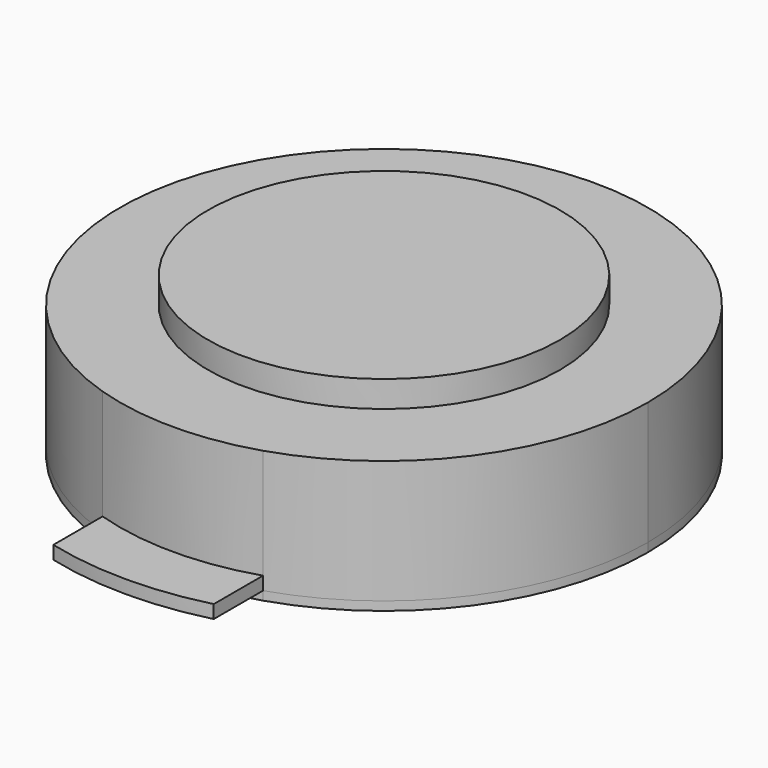
from build123d import *

# Parameters (mm, degrees)
F0_R     = 20
F0_R_2   = 12.5
F1_DEPTH = 14
F2_DEPTH = 17
F0_R_3   = 1
F3_DEPTH = 1.5
F4_DEPTH = 5
F7_DEPTH = 1


with BuildPart() as f1:
    # F0 (on Top) → F1 (new body)
    with BuildSketch(Plane.XY):
        with BuildLine():
            ThreePointArc((9.1152584866, -28.5816735466), (24.2224870172, -17.6994667349), (30, 0))
            ThreePointArc((30, 0), (-17.6994667349, 24.2224870172), (-9.1152584866, -28.5816735466))
            ThreePointArc((-9.1152584866, -28.5816735466), (0, -30), (9.1152584866, -28.5816735466))
        make_face()
        with BuildLine():
            ThreePointArc((19.091883092, 19.091883092), (24.9447473778, 10.3324526739), (27, 0))
            ThreePointArc((27, 0), (24.9447473798, -10.3324526689), (19.0918830996, -19.0918830845))
            ThreePointArc((19.0918830996, -19.0918830845), (5.3e-09, -27), (-19.091883092, -19.091883092))
            ThreePointArc((-19.091883092, -19.091883092), (-27, 0), (-19.091883092, 19.091883092))
            ThreePointArc((-19.091883092, 19.091883092), (0, 27), (19.091883092, 19.091883092))
        make_face(mode=Mode.SUBTRACT)
        with BuildLine():
            ThreePointArc((19.0918830996, -19.0918830845), (24.9447473798, -10.3324526689), (27, 0))
            ThreePointArc((27, 0), (24.9447473778, 10.3324526739), (19.091883092, 19.091883092))
            ThreePointArc((19.091883092, 19.091883092), (0, 27), (-19.091883092, 19.091883092))
            ThreePointArc((-19.091883092, 19.091883092), (-27, 0), (-19.091883092, -19.091883092))
            ThreePointArc((-19.091883092, -19.091883092), (5.3e-09, -27), (19.0918830996, -19.0918830845))
        make_face()
        with BuildLine():
            ThreePointArc((-16.5312229203, -18.0312229203), (-17.4571977717, -19.417042219), (-19.091883092, -19.091883092))
            ThreePointArc((-19.091883092, -19.091883092), (-18.6052480688, -16.6454036215), (-16.5312229203, -18.0312229203))
        make_face(mode=Mode.SUBTRACT)
        with BuildLine():
            ThreePointArc((19.5312229203, -18.0312229203), (19.4170422211, -18.6052480639), (19.0918830996, -19.0918830845))
            ThreePointArc((19.0918830996, -19.0918830845), (16.6454036195, -17.4571977766), (19.5312229203, -18.0312229203))
        make_face(mode=Mode.SUBTRACT)
        with BuildLine():
            ThreePointArc((-16.5312229203, 18.0312229203), (-18.6052480688, 16.6454036215), (-19.091883092, 19.091883092))
            ThreePointArc((-19.091883092, 19.091883092), (-17.4571977717, 19.417042219), (-16.5312229203, 18.0312229203))
        make_face(mode=Mode.SUBTRACT)
        Circle(F0_R, mode=Mode.SUBTRACT)
        with BuildLine():
            ThreePointArc((19.5312229203, 18.0312229203), (16.6454036215, 17.4571977717), (19.091883092, 19.091883092))
            ThreePointArc((19.091883092, 19.091883092), (19.417042219, 18.6052480688), (19.5312229203, 18.0312229203))
        make_face(mode=Mode.SUBTRACT)
        Circle(F0_R)
        Circle(F0_R_2, mode=Mode.SUBTRACT)
        Circle(F0_R_2)
        with BuildLine():
            ThreePointArc((19.5312229203, 18.0312229203), (19.417042219, 18.6052480688), (19.091883092, 19.091883092))
            ThreePointArc((19.091883092, 19.091883092), (16.6454036215, 17.4571977717), (19.5312229203, 18.0312229203))
        make_face()
        with BuildLine():
            ThreePointArc((-16.5312229203, 18.0312229203), (-17.4571977717, 19.417042219), (-19.091883092, 19.091883092))
            ThreePointArc((-19.091883092, 19.091883092), (-18.6052480688, 16.6454036215), (-16.5312229203, 18.0312229203))
        make_face()
        with BuildLine():
            ThreePointArc((-16.5312229203, -18.0312229203), (-18.6052480688, -16.6454036215), (-19.091883092, -19.091883092))
            ThreePointArc((-19.091883092, -19.091883092), (-17.4571977717, -19.417042219), (-16.5312229203, -18.0312229203))
        make_face()
        with BuildLine():
            ThreePointArc((19.5312229203, -18.0312229203), (16.6454036195, -17.4571977766), (19.0918830996, -19.0918830845))
            ThreePointArc((19.0918830996, -19.0918830845), (19.4170422211, -18.6052480639), (19.5312229203, -18.0312229203))
        make_face()
    extrude(amount=F1_DEPTH)

    # F0 (on Top) → F2 (join)
    with BuildSketch(Plane.XY):
        Circle(F0_R)
        Circle(F0_R_2, mode=Mode.SUBTRACT)
        Circle(F0_R_2)
    extrude(amount=F2_DEPTH)

    # F0 (on Top) → F3 (join)
    with BuildSketch(Plane.XY):
        with BuildLine():
            ThreePointArc((9.1152584866, -28.5816735466), (0, -30), (-9.1152584866, -28.5816735466))
            Line((-9.1152584866, -28.5816735466), (-9.1152584866, -35.5816735466))
            ThreePointArc((-9.1152584866, -35.5816735466), (0, -36.7306878462), (9.1152584866, -35.5816735466))
            Line((9.1152584866, -35.5816735466), (9.1152584866, -28.5816735466))
        make_face()
        with Locations((-4.2370397167, -33.0812516278)):
            Circle(F0_R_3, mode=Mode.SUBTRACT)
        with Locations((4.2370397167, -33.0812516278)):
            Circle(F0_R_3, mode=Mode.SUBTRACT)
        with Locations((-4.2370397167, -33.0812516278)):
            Circle(F0_R_3)
        with Locations((4.2370397167, -33.0812516278)):
            Circle(F0_R_3)
    extrude(amount=F3_DEPTH)

    # F0 (on Top) → F4 (cut)
    with BuildSketch(Plane.XY):
        with BuildLine():
            ThreePointArc((-16.5312229203, 18.0312229203), (-17.4571977717, 19.417042219), (-19.091883092, 19.091883092))
            ThreePointArc((-19.091883092, 19.091883092), (-18.6052480688, 16.6454036215), (-16.5312229203, 18.0312229203))
        make_face()
        with BuildLine():
            ThreePointArc((19.5312229203, 18.0312229203), (19.417042219, 18.6052480688), (19.091883092, 19.091883092))
            ThreePointArc((19.091883092, 19.091883092), (16.6454036215, 17.4571977717), (19.5312229203, 18.0312229203))
        make_face()
        with BuildLine():
            ThreePointArc((19.5312229203, -18.0312229203), (16.6454036195, -17.4571977766), (19.0918830996, -19.0918830845))
            ThreePointArc((19.0918830996, -19.0918830845), (19.4170422211, -18.6052480639), (19.5312229203, -18.0312229203))
        make_face()
        with BuildLine():
            ThreePointArc((-16.5312229203, -18.0312229203), (-18.6052480688, -16.6454036215), (-19.091883092, -19.091883092))
            ThreePointArc((-19.091883092, -19.091883092), (-17.4571977717, -19.417042219), (-16.5312229203, -18.0312229203))
        make_face()
    extrude(amount=F4_DEPTH, mode=Mode.SUBTRACT)

    # F0 (on Top) → F7 (join)
    with BuildSketch(Plane.XY):
        with BuildLine():
            ThreePointArc((9.1152584866, -28.5816735466), (24.2224870172, -17.6994667349), (30, 0))
            ThreePointArc((30, 0), (-17.6994667349, 24.2224870172), (-9.1152584866, -28.5816735466))
            ThreePointArc((-9.1152584866, -28.5816735466), (0, -30), (9.1152584866, -28.5816735466))
        make_face()
        with BuildLine():
            ThreePointArc((19.091883092, 19.091883092), (24.9447473778, 10.3324526739), (27, 0))
            ThreePointArc((27, 0), (24.9447473798, -10.3324526689), (19.0918830996, -19.0918830845))
            ThreePointArc((19.0918830996, -19.0918830845), (5.3e-09, -27), (-19.091883092, -19.091883092))
            ThreePointArc((-19.091883092, -19.091883092), (-27, 0), (-19.091883092, 19.091883092))
            ThreePointArc((-19.091883092, 19.091883092), (0, 27), (19.091883092, 19.091883092))
        make_face(mode=Mode.SUBTRACT)
        with BuildLine():
            ThreePointArc((19.0918830996, -19.0918830845), (24.9447473798, -10.3324526689), (27, 0))
            ThreePointArc((27, 0), (24.9447473778, 10.3324526739), (19.091883092, 19.091883092))
            ThreePointArc((19.091883092, 19.091883092), (0, 27), (-19.091883092, 19.091883092))
            ThreePointArc((-19.091883092, 19.091883092), (-27, 0), (-19.091883092, -19.091883092))
            ThreePointArc((-19.091883092, -19.091883092), (5.3e-09, -27), (19.0918830996, -19.0918830845))
        make_face()
        with BuildLine():
            ThreePointArc((-16.5312229203, -18.0312229203), (-17.4571977717, -19.417042219), (-19.091883092, -19.091883092))
            ThreePointArc((-19.091883092, -19.091883092), (-18.6052480688, -16.6454036215), (-16.5312229203, -18.0312229203))
        make_face(mode=Mode.SUBTRACT)
        with BuildLine():
            ThreePointArc((19.5312229203, -18.0312229203), (19.4170422211, -18.6052480639), (19.0918830996, -19.0918830845))
            ThreePointArc((19.0918830996, -19.0918830845), (16.6454036195, -17.4571977766), (19.5312229203, -18.0312229203))
        make_face(mode=Mode.SUBTRACT)
        with BuildLine():
            ThreePointArc((-16.5312229203, 18.0312229203), (-18.6052480688, 16.6454036215), (-19.091883092, 19.091883092))
            ThreePointArc((-19.091883092, 19.091883092), (-17.4571977717, 19.417042219), (-16.5312229203, 18.0312229203))
        make_face(mode=Mode.SUBTRACT)
        Circle(F0_R, mode=Mode.SUBTRACT)
        with BuildLine():
            ThreePointArc((19.5312229203, 18.0312229203), (16.6454036215, 17.4571977717), (19.091883092, 19.091883092))
            ThreePointArc((19.091883092, 19.091883092), (19.417042219, 18.6052480688), (19.5312229203, 18.0312229203))
        make_face(mode=Mode.SUBTRACT)
    extrude(amount=-F7_DEPTH)


with BuildPart() as f6:
    # F5 (on Front) → F6 (revolve)
    with BuildSketch(Plane.XZ):
        with BuildLine():
            Line((12.5, 0), (0, 0))
            Line((0, 0), (0, -12.5))
            ThreePointArc((0, -12.5), (8.8388347648, -8.8388347648), (12.5, 0))
        make_face()
    revolve(axis=Axis((0, 0, -7.012763992), (0, 0, -1)))


with BuildPart() as f6b:
    # F5 (on Front) → F6, piece 2 (revolve)
    with BuildSketch(Plane.XZ):
        with BuildLine():
            Line((14.25, 0), (13, 0))
            ThreePointArc((13, 0), (14.25, -1.25), (15.5, 0))
            Line((15.5, 0), (14.25, 0))
        make_face()
    revolve(axis=Axis((0, 0, -7.012763992), (0, 0, -1)))


solid = Compound([f1.part, f6.part, f6b.part])
